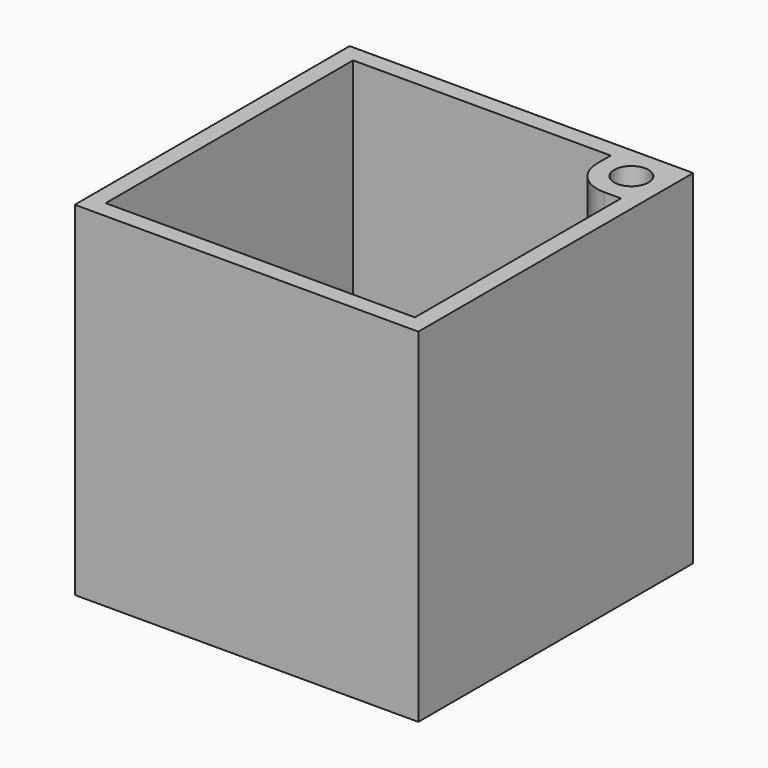
from build123d import *

# Parameters (mm, degrees)
F0_W     = 25.4
F0_H     = 25.4
F1_DEPTH = 25.4
F2_R     = 1.27
F3_DEPTH = 12.7
F5_DEPTH = 22.86
F6_R     = 2.54


with BuildPart() as f1:
    # F0 (on Top) → F1 (new body)
    with BuildSketch(Plane.XY):
        with Locations((12.7, 12.7)):
            Rectangle(F0_W, F0_H)
    extrude(amount=F1_DEPTH)

    # F2 (on face) → F3 (cut)
    with BuildSketch(Plane.XY.offset(25.4)):
        with Locations((22.86, 22.86)):
            Circle(F2_R)
    extrude(amount=-F3_DEPTH, mode=Mode.SUBTRACT)

    # F4 (on face) → F5 (cut)
    with BuildSketch(Plane.XY.offset(25.4)):
        Polygon((24.13, 1.27), (24.13, 20.32), (20.32, 20.32), (20.32, 24.13), (1.27, 24.13), (1.27, 1.27), align=None)
    extrude(amount=-F5_DEPTH, mode=Mode.SUBTRACT)

    # F6
    f6_edges = [f1.edges().sort_by_distance(p)[0] for p in [
        (20.32, 20.32, 13.97),
    ]]
    fillet(f6_edges, radius=F6_R)


solid = f1.part
